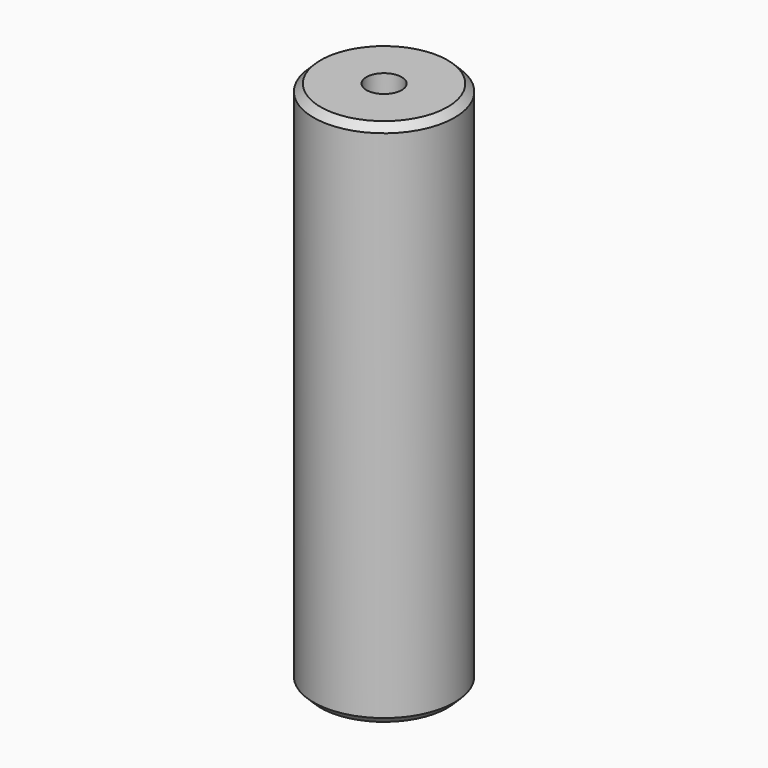
from build123d import *

# Parameters (mm, degrees)
CYLINDER003_R     = 1
CYLINDER003_DEPTH = 30
CYLINDER001_R     = 2
CYLINDER001_DEPTH = 28
CYLINDER_R        = 4
CYLINDER_DEPTH    = 30
CHAMFER_SIZE      = 0.4


with BuildPart() as cylinder003:
    # Cylinder003 → Cylinder003 (new body)
    with BuildSketch(Plane.XY):
        Circle(CYLINDER003_R)
    extrude(amount=CYLINDER003_DEPTH)


with BuildPart() as fusion:
    # Cylinder001 → Cylinder001 (new body)
    with BuildSketch(Plane.XY):
        Circle(CYLINDER001_R)
    extrude(amount=CYLINDER001_DEPTH)

    # Fusion: union Cylinder003
    add(cylinder003.part)


with BuildPart() as chamfer_body:
    # Cylinder → Cylinder (new body)
    with BuildSketch(Plane.XY):
        Circle(CYLINDER_R)
    extrude(amount=CYLINDER_DEPTH)

    # Cut: cut Fusion
    add(fusion.part, mode=Mode.SUBTRACT)

    # Chamfer
    chamfer_edges = [chamfer_body.edges().sort_by_distance(p)[0] for p in [
        (-4, 0, 30),
        (-4, 0, 0),
    ]]
    chamfer(chamfer_edges, length=CHAMFER_SIZE)


solid = chamfer_body.part
